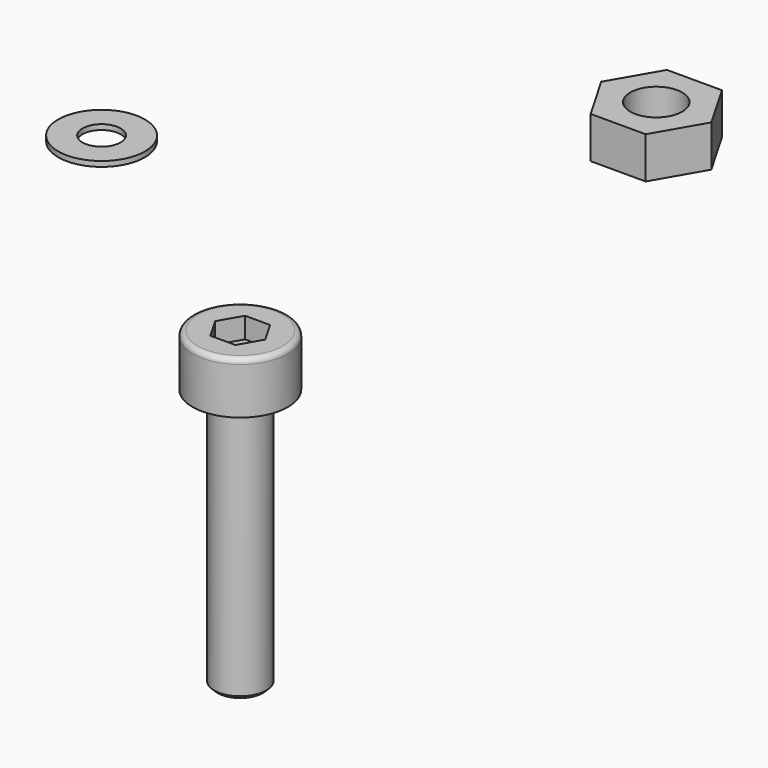
from build123d import *

# Parameters (mm, degrees)
F0_W      = 1.5
F0_H      = 15
F2_R      = 0.3
F4_DEPTH  = 1.2
F5_SIZE   = 0.2
F6_W      = 1.25
F6_H      = 15
F9_DEPTH  = 1.1
F10_R     = 0.2
F11_SIZE  = 0.2
F12_W     = 1
F12_H     = 15
F15_DEPTH = 1
F16_R     = 0.2
F17_SIZE  = 0.1
F18_R     = 2.5
F18_R_2   = 1.1
F19_DEPTH = 0.3
F18_R_3   = 3
F18_R_4   = 1.35
F20_DEPTH = 0.5
F18_R_5   = 3.5
F18_R_6   = 1.6
F21_DEPTH = 0.5
F22_R     = 1
F23_DEPTH = 1.6
F22_R_2   = 1.25
F24_DEPTH = 2
F22_R_3   = 1.5
F25_DEPTH = 2.4
F26_W     = 3
F26_H     = 25
F29_DEPTH = 3
F18_R_7   = 6
F18_R_8   = 3.2
F30_DEPTH = 1.4
F22_R_4   = 3
F31_DEPTH = 5


with BuildPart() as f1:
    # F0 (on Front) → F1 (revolve)
    with BuildSketch(Plane.XZ):
        with Locations((-10.75, -7.5)):
            Rectangle(F0_W, F0_H)
        Polygon((-11.5, 0), (-10, 0), (-10, 3), (-12.75, 3), (-12.75, 0), align=None)
    revolve(axis=Axis((-10, 0, -0.8508423006), (0, 0, 1)))

    # F2
    f2_edges = [f1.edges().sort_by_distance(p)[0] for p in [
        (-7.25, 0, 3),
    ]]
    fillet(f2_edges, radius=F2_R)

    # F3 (on face) → F4 (cut)
    with BuildSketch(Plane.XY.offset(3)):
        Polygon((-10.7216878365, 1.25), (-11.443375673, 0), (-10.7216878365, -1.25), (-9.2783121635, -1.25), (-8.556624327, 0), (-9.2783121635, 1.25), align=None)
    extrude(amount=-F4_DEPTH, mode=Mode.SUBTRACT)

    # F5
    f5_edges = [f1.edges().sort_by_distance(p)[0] for p in [
        (-8.5, 0, -15),
    ]]
    chamfer(f5_edges, length=F5_SIZE)


with BuildPart() as f7:
    # F6 (on Front) → F7 (revolve)
    with BuildSketch(Plane.XZ):
        Polygon((-21.25, 0), (-20, 0), (-20, 2.5), (-22.25, 2.5), (-22.25, 0), align=None)
        with Locations((-20.625, -7.5)):
            Rectangle(F6_W, F6_H)
    revolve(axis=Axis((-20, 0, -5.1652500254), (0, 0, -1)))

    # F8 (on face) → F9 (cut)
    with BuildSketch(Plane.XY.offset(2.5)):
        Polygon((-20.5773502692, 1), (-21.1547005384, 0), (-20.5773502692, -1), (-19.4226497308, -1), (-18.8452994616, 0), (-19.4226497308, 1), align=None)
    extrude(amount=-F9_DEPTH, mode=Mode.SUBTRACT)

    # F10
    f10_edges = [f7.edges().sort_by_distance(p)[0] for p in [
        (-17.75, 0, 2.5),
    ]]
    fillet(f10_edges, radius=F10_R)

    # F11
    f11_edges = [f7.edges().sort_by_distance(p)[0] for p in [
        (-18.75, 0, -15),
    ]]
    chamfer(f11_edges, length=F11_SIZE)


with BuildPart() as f13:
    # F12 (on Front) → F13 (revolve)
    with BuildSketch(Plane.XZ):
        with Locations((-30.5, -7.5)):
            Rectangle(F12_W, F12_H)
        Polygon((-31, 0), (-30, 0), (-30, 2), (-31.9, 2), (-31.9, 0), align=None)
    revolve(axis=Axis((-30, 0, -5.8312802576), (0, 0, -1)))

    # F14 (on face) → F15 (cut)
    with BuildSketch(Plane.XY.offset(2)):
        Polygon((-30.5773502692, 1), (-31.1547005384, 0), (-30.5773502692, -1), (-29.4226497308, -1), (-28.8452994616, 0), (-29.4226497308, 1), align=None)
    extrude(amount=-F15_DEPTH, mode=Mode.SUBTRACT)

    # F16
    f16_edges = [f13.edges().sort_by_distance(p)[0] for p in [
        (-28.1, 0, 2),
    ]]
    fillet(f16_edges, radius=F16_R)

    # F17
    f17_edges = [f13.edges().sort_by_distance(p)[0] for p in [
        (-29, 0, -15),
    ]]
    chamfer(f17_edges, length=F17_SIZE)


with BuildPart() as f19:
    # F18 (on Top) → F19 (new body)
    with BuildSketch(Plane.XY):
        with Locations((-30, 15)):
            Circle(F18_R)
        with Locations((-30, 15)):
            Circle(F18_R_2, mode=Mode.SUBTRACT)
    extrude(amount=F19_DEPTH)


with BuildPart() as f20:
    # F18 (on Top) → F20 (new body)
    with BuildSketch(Plane.XY):
        with Locations((-20, 15)):
            Circle(F18_R_3)
        with Locations((-20, 15)):
            Circle(F18_R_4, mode=Mode.SUBTRACT)
    extrude(amount=F20_DEPTH)


with BuildPart() as f21:
    # F18 (on Top) → F21 (new body)
    with BuildSketch(Plane.XY):
        with Locations((-10, 15)):
            Circle(F18_R_5)
        with Locations((-10, 15)):
            Circle(F18_R_6, mode=Mode.SUBTRACT)
    extrude(amount=F21_DEPTH)


with BuildPart() as f23:
    # F22 (on Top) → F23 (new body)
    with BuildSketch(Plane.XY):
        Polygon((-28.8452994616, 32), (-31.1547005384, 32), (-32.3094010768, 30), (-31.1547005384, 28), (-28.8452994616, 28), (-27.6905989232, 30), align=None)
        with Locations((-30, 30)):
            Circle(F22_R, mode=Mode.SUBTRACT)
    extrude(amount=F23_DEPTH)


with BuildPart() as f24:
    # F22 (on Top) → F24 (new body)
    with BuildSketch(Plane.XY):
        Polygon((-18.556624327, 32.5), (-21.443375673, 32.5), (-22.8867513459, 30), (-21.443375673, 27.5), (-18.556624327, 27.5), (-17.1132486541, 30), align=None)
        with Locations((-20, 30)):
            Circle(F22_R_2, mode=Mode.SUBTRACT)
    extrude(amount=F24_DEPTH)


with BuildPart() as f25:
    # F22 (on Top) → F25 (new body)
    with BuildSketch(Plane.XY):
        Polygon((-8.4122867597, 32.75), (-11.5877132403, 32.75), (-13.1754264805, 30), (-11.5877132403, 27.25), (-8.4122867597, 27.25), (-6.8245735195, 30), align=None)
        with Locations((-10, 30)):
            Circle(F22_R_3, mode=Mode.SUBTRACT)
    extrude(amount=F25_DEPTH)


with BuildPart() as f27:
    # F26 (on Front) → F27 (revolve)
    with BuildSketch(Plane.XZ):
        with Locations((6.889186867, -12.3765884969)):
            Rectangle(F26_W, F26_H)
        Polygon((5.389186867, 0.1234115031), (8.389186867, 0.1234115031), (8.389186867, 6.1234115031), (3.389186867, 6.1234115031), (3.389186867, 0.1234115031), align=None)
    revolve(axis=Axis((8.389186867, 0, -0.7274307974), (0, 0, 1)))

    # F28 (on face) → F29 (cut)
    with BuildSketch(Plane.XY.offset(6.1234115031)):
        Polygon((10.889186867, -1.443375673), (10.889186867, 1.443375673), (8.389186867, 2.8867513459), (5.889186867, 1.443375673), (5.889186867, -1.443375673), (8.389186867, -2.8867513459), align=None)
    extrude(amount=-F29_DEPTH, mode=Mode.SUBTRACT)


with BuildPart() as f30:
    # F18 (on Top) → F30 (new body)
    with BuildSketch(Plane.XY):
        with Locations((10, 15)):
            Circle(F18_R_7)
        with Locations((10, 15)):
            Circle(F18_R_8, mode=Mode.SUBTRACT)
    extrude(amount=F30_DEPTH)


with BuildPart() as f31:
    # F22 (on Top) → F31 (new body)
    with BuildSketch(Plane.XY):
        Polygon((12.8867513459, 35), (7.1132486541, 35), (4.2264973081, 30), (7.1132486541, 25), (12.8867513459, 25), (15.7735026919, 30), align=None)
        with Locations((10, 30)):
            Circle(F22_R_4, mode=Mode.SUBTRACT)
    extrude(amount=F31_DEPTH)


solid = Compound([f1.part, f19.part, f25.part])
